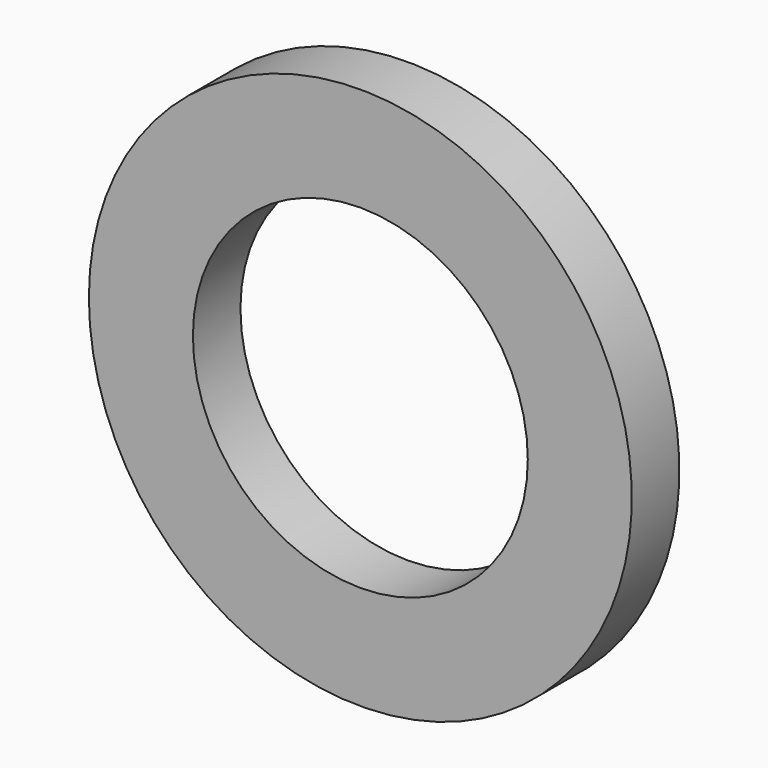
from build123d import *

# Parameters (mm, degrees)
F0_W = 30
F0_H = 17.142856


with BuildPart() as f2:
    # F0 (on Top) → F2 (revolve)
    with BuildSketch(Plane.XY):
        Rectangle(F0_W, F0_H)
    revolve(axis=Axis((63.289136, 1.273051, 0), (0, -1, 0)))


solid = f2.part
